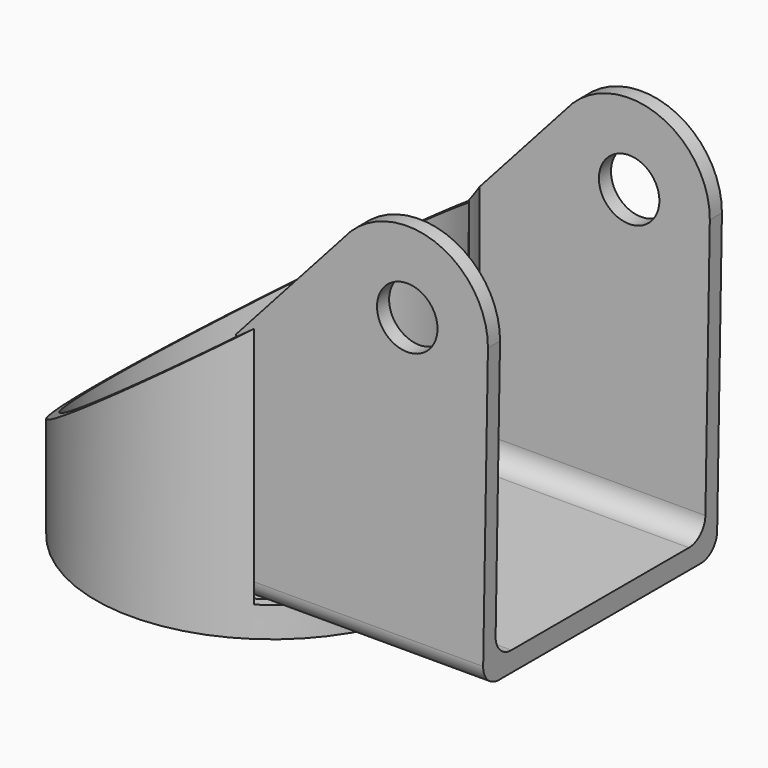
from build123d import *

# Parameters (mm, degrees)
SKETCH004_W     = 29
SKETCH004_H     = 32
PAD003_DEPTH    = 18
PAD002_DEPTH    = 18
SKETCH_R        = 17.5
SKETCH_R_2      = 16.5
PAD_DEPTH       = 32
SKETCH001_R     = 17.5
SKETCH001_R_2   = 6
PAD001_DEPTH    = 1
SKETCH005_W     = 26
SKETCH005_H     = 29
PAD004_DEPTH    = 39
BOX_W           = 26
BOX_H           = 50
BOX_DEPTH       = 30
CYLINDER_R      = 16.5
CYLINDER_DEPTH  = 42
SKETCH007_R     = 3
POCKET_DEPTH    = 30
POCKET001_DEPTH = 30
FILLET_R        = 2


with BuildPart() as body002:
    # Sketch004 → Pad003 (new body)
    with BuildSketch(Plane.YZ):
        with Locations((0, 18)):
            Rectangle(SKETCH004_W, SKETCH004_H)
    extrude(amount=PAD003_DEPTH)


with BuildPart() as body001:
    # Sketch003 → Pad002 (new body, symmetric)
    with BuildSketch(Plane.XZ):
        Polygon((-28, 32), (18, 32), (-18, 6), (-18, 0), (-28, 0), align=None)
    extrude(amount=PAD002_DEPTH, both=True)


with BuildPart() as cut001:
    # Sketch → Pad (new body)
    with BuildSketch(Plane.XY):
        Circle(SKETCH_R)
        Circle(SKETCH_R_2, mode=Mode.SUBTRACT)
    extrude(amount=PAD_DEPTH)

    # Sketch001 (on Face3 of Pad) → Pad001 (join)
    with BuildSketch(Plane(origin=(0, 0, 0), x_dir=(1, 0, 0), z_dir=(0, 0, -1))):
        Circle(SKETCH001_R)
        Circle(SKETCH001_R_2, mode=Mode.SUBTRACT)
    extrude(amount=PAD001_DEPTH)

    # Cut: cut Body001
    add(body001.part, mode=Mode.SUBTRACT)

    # Cut001: cut Body002
    add(body002.part, mode=Mode.SUBTRACT)


with BuildPart() as body003:
    # Sketch005 → Pad004 (new body)
    with BuildSketch(Plane.XY.offset(2)):
        with Locations((21, 0)):
            Rectangle(SKETCH005_W, SKETCH005_H)
    extrude(amount=PAD004_DEPTH)

    # Box → Box (cut)
    with BuildSketch(Plane(origin=(5, -13, 4), x_dir=(0, 1, 0), z_dir=(1, 0, 0))):
        with Locations((13, 25)):
            Rectangle(BOX_W, BOX_H)
    extrude(amount=BOX_DEPTH, mode=Mode.SUBTRACT)

    # Cylinder → Cylinder (cut)
    with BuildSketch(Plane.XY):
        Circle(CYLINDER_R)
    extrude(amount=CYLINDER_DEPTH, mode=Mode.SUBTRACT)

    # Sketch007 (on Face7 of Cylinder) → Pocket (cut)
    with BuildSketch(Plane.XZ.offset(14.5)):
        with Locations((25, 32)):
            Circle(SKETCH007_R)
    extrude(amount=-POCKET_DEPTH, mode=Mode.SUBTRACT)

    # Sketch008 (on Face10 of Pocket) → Pocket001 (cut)
    with BuildSketch(Plane.XZ.offset(14.5)):
        with BuildLine():
            Line((32.482746, 1.344281), (32.999839, 31.949261))
            ThreePointArc((32.999839, 31.949261), (28.128782, 39.362793), (19.410904, 37.72381))
            Line((8, 25), (19.410904, 37.72381))
            Line((8, 25), (8, 43.812584))
            Line((8, 43.812584), (37.606125, 43.812584))
            Line((37.606125, 43.812584), (37.606125, 1.344281))
            Line((37.606125, 1.344281), (32.482746, 1.344281))
        make_face()
    extrude(amount=-POCKET001_DEPTH, mode=Mode.SUBTRACT)

    # Fillet
    fillet_edges = [body003.edges().sort_by_distance(p)[0] for p in [
        (20.246912, -14.5, 2),
        (21.344408, -13, 4),
        (21.344408, 13, 4),
        (20.246912, 14.5, 2),
    ]]
    fillet(fillet_edges, radius=FILLET_R)


solid = Compound([cut001.part, body003.part])
